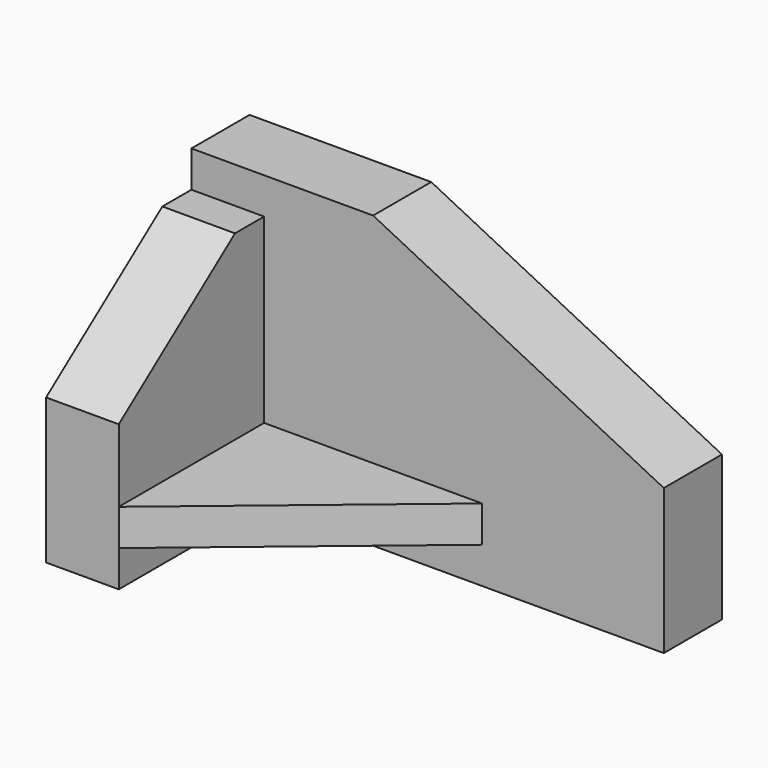
from build123d import *

# Parameters (mm, degrees)
F1_DEPTH = 10
F0_W     = 30
F0_H     = 5
F2_DEPTH = 35
F4_DEPTH = 10.001
F6_DEPTH = 10.001


with BuildPart() as f1:
    # F0 (on Front) → F1 (new body)
    with BuildSketch(Plane.XZ):
        Polygon((32.5, 0), (-7.5, 20), (-22.5, 20), (-32.5, 20), (-32.5, 15), (-22.5, 15), (-22.5, -10), (7.5, -10), (7.5, -15), (-22.5, -15), (-22.5, -20), (32.5, -20), align=None)
    extrude(amount=F1_DEPTH)

    # F0 (on Front) → F2 (join)
    with BuildSketch(Plane.XZ):
        Polygon((-22.5, 15), (-32.5, 15), (-32.5, 10), (-32.5, -20), (-22.5, -20), (-22.5, -15), (-22.5, -10), align=None)
        with Locations((-7.5, -12.5)):
            Rectangle(F0_W, F0_H)
    extrude(amount=F2_DEPTH)

    # F3 (on face) → F4 (cut, through all)
    with BuildSketch(Plane.XY.offset(-10)):
        Polygon((7.5, -10), (-22.5, -35), (7.5, -35), align=None)
    extrude(amount=-F4_DEPTH, mode=Mode.SUBTRACT)

    # F5 (on face) → F6 (cut, through all)
    with BuildSketch(Plane.YZ.offset(-22.5)):
        Polygon((-35, 15), (-35, 0), (-15, 15), align=None)
    extrude(amount=-F6_DEPTH, mode=Mode.SUBTRACT)


solid = f1.part
